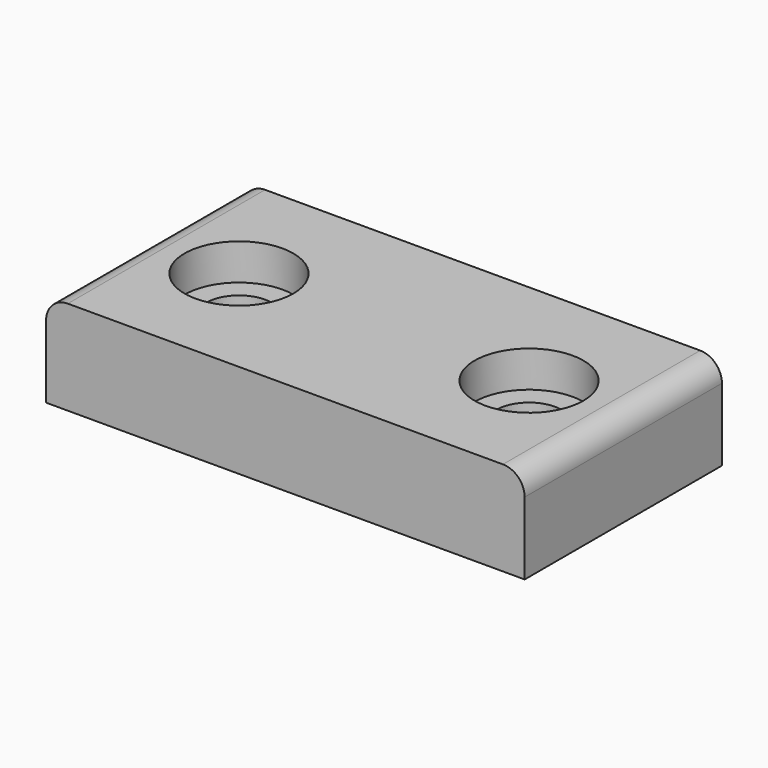
from build123d import *

# Parameters (mm, degrees)
SKETCH_W     = 33
SKETCH_H     = 17
SKETCH_R     = 2.25
PAD_DEPTH    = 6.5
SKETCH001_R  = 3.75
POCKET_DEPTH = 2.5
FILLET_R     = 1.5


with BuildPart() as part:
    # Sketch → Pad (new body)
    with BuildSketch(Plane.XY):
        with Locations((16.5, 8.5)):
            Rectangle(SKETCH_W, SKETCH_H)
        with Locations((6.5, 8.5)):
            Circle(SKETCH_R, mode=Mode.SUBTRACT)
        with Locations((26.5, 8.5)):
            Circle(SKETCH_R, mode=Mode.SUBTRACT)
    extrude(amount=PAD_DEPTH)

    # Sketch001 (on Face8 of Pad) → Pocket (cut)
    with BuildSketch(Plane.XY.offset(6.5)):
        with Locations((6.5, 8.5)):
            Circle(SKETCH001_R)
        with Locations((26.5, 8.5)):
            Circle(SKETCH001_R)
    extrude(amount=-POCKET_DEPTH, mode=Mode.SUBTRACT)

    # Fillet
    fillet_edges = [part.edges().sort_by_distance(p)[0] for p in [
        (33, 8.5, 6.5),
        (0, 8.5, 6.5),
    ]]
    fillet(fillet_edges, radius=FILLET_R)


solid = part.part
